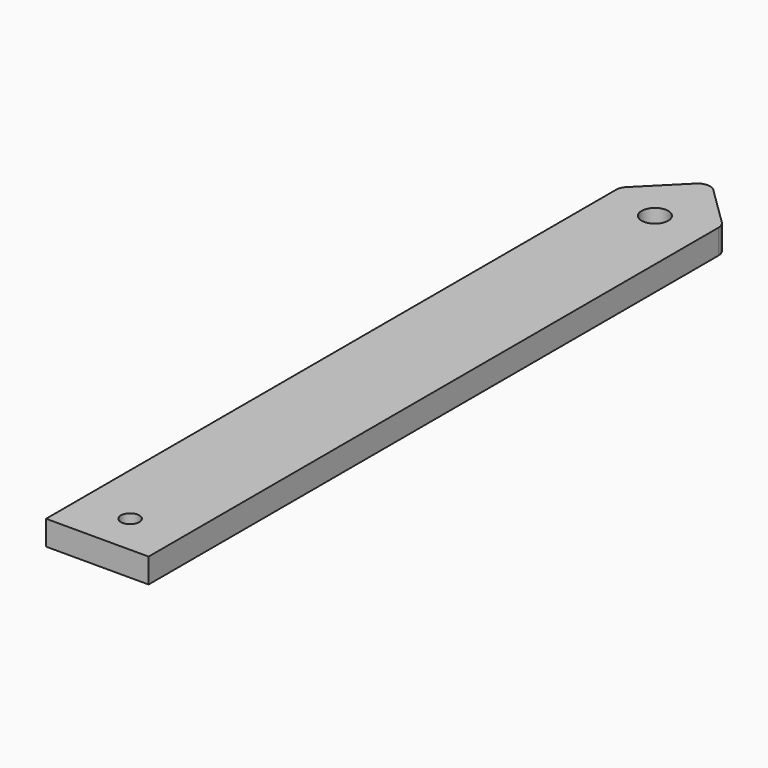
from build123d import *

# Parameters (mm, degrees)
SKETCH_R   = 2.25
SKETCH_R_2 = 3.25
PAD_DEPTH  = 6
FILLET_R   = 3


with BuildPart() as part:
    # Sketch → Pad (new body)
    with BuildSketch(Plane.XY):
        Polygon((0, 0), (25, 0), (25, 175), (12.374371, 187.374367), (0, 175), align=None)
        with Locations((12.5, 10)):
            Circle(SKETCH_R, mode=Mode.SUBTRACT)
        with Locations((12.5, 170)):
            Circle(SKETCH_R_2, mode=Mode.SUBTRACT)
    extrude(amount=PAD_DEPTH)

    # Fillet
    fillet_edges = [part.edges().sort_by_distance(p)[0] for p in [
        (12.374371, 187.374367, 3),
        (25, 175, 3),
        (0, 175, 3),
    ]]
    fillet(fillet_edges, radius=FILLET_R)


solid = part.part
